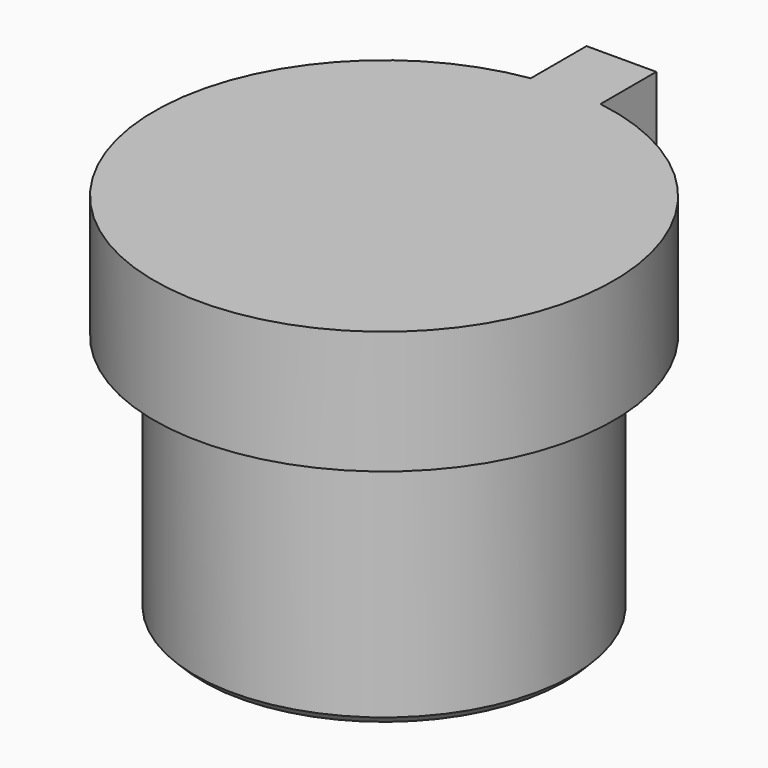
from build123d import *

# Parameters (mm, degrees)
SKETCH046_R     = 2.3
PAD032_DEPTH    = 3
PAD033_DEPTH    = 1.5
POCKET007_DEPTH = 0.6
CHAMFER001_SIZE = 0.1


with BuildPart() as part:
    # Sketch046 → Pad032 (new body)
    with BuildSketch(Plane.XY):
        Circle(SKETCH046_R)
    extrude(amount=PAD032_DEPTH)

    # Sketch047 (on Face3 of Pad032) → Pad033 (join)
    with BuildSketch(Plane.XY.offset(3)):
        with BuildLine():
            Line((0.425, 2.767558), (0.425, 3.617558))
            Line((0.425, 3.617558), (-0.425, 3.617558))
            Line((-0.425, 3.617558), (-0.425, 2.767558))
            ThreePointArc((-0.425, 2.767558), (0, -2.8), (0.425, 2.767558))
        make_face()
    extrude(amount=PAD033_DEPTH)

    # Sketch048 → Pocket007 (cut)
    with BuildSketch(Plane.XY):
        Polygon((1.443376, 0.9), (0, -1.6), (-1.443376, 0.9), align=None)
    extrude(amount=POCKET007_DEPTH, mode=Mode.SUBTRACT)

    # Chamfer001
    chamfer001_edges = [part.edges().sort_by_distance(p)[0] for p in [
        (0.721688, -0.35, 0),
        (0, 0.9, 0),
        (-0.721688, -0.35, 0),
        (-2.3, 0, 0),
    ]]
    chamfer(chamfer001_edges, length=CHAMFER001_SIZE)


with BuildPart() as part_1:
    # Body013 placement: moved
    add(part.part.moved(Location((63.6, 11.5, -1.5))))


solid = part_1.part
